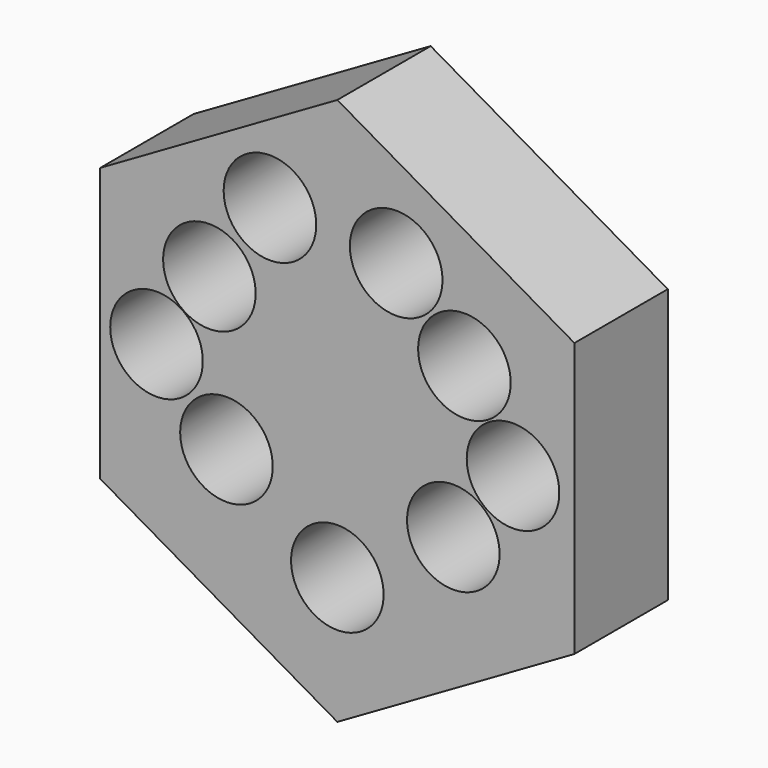
from build123d import *

# Parameters (mm, degrees)
F8_DEPTH = 32.004
F9_D     = 25.4


with BuildPart() as f8:
    # F0 (on Front) → F8 (new body)
    with BuildSketch(Plane.XZ):
        Polygon((65.036002, -37.548553), (65.036002, 37.548553), (0, 75.097106), (-65.036002, 37.548553), (-65.036002, -37.548553), (0, -75.097106), align=None)
    extrude(amount=-F8_DEPTH)

    # F9 (through all)
    with Locations(Plane.XZ):
        with Locations((-18.481843, 43.046314), (16.14237, 40.940791), (34.85816, 22.225002), (48.19316, 0), (0, -40.238947), (-30.413158, -19.183684), (-49.596842, 0), (-35.092108, 21.055264), (31.81684, -20.119473)):
            Hole(F9_D / 2)


solid = f8.part
